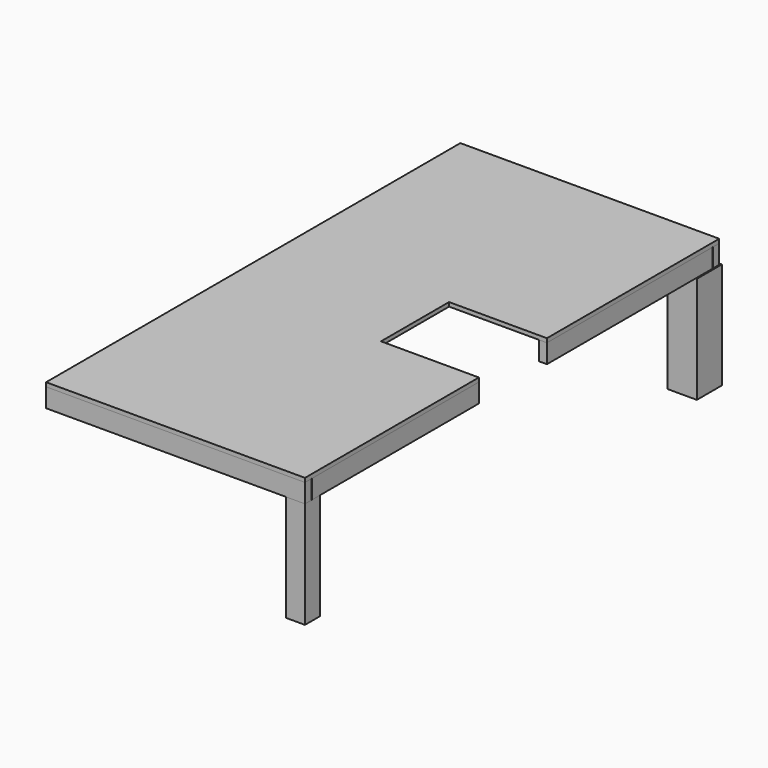
from build123d import *

# Parameters (mm, degrees)
F1_W      = 1219.2
F1_H      = 2438.4
F2_DEPTH  = 19.05
F3_W      = 1219.2
F3_H      = 38.1
F4_DEPTH  = 88.9
F5_W      = 38.1
F5_H      = 2357.12
F6_DEPTH  = 88.9
F7_W      = 460.8534946203
F7_H      = 400.5613774061
F8_DEPTH  = 107.951
F10_W     = 88.9
F10_H     = 88.9
F11_DEPTH = 501.65
F10_W_2   = 139.2837166786
F10_H_2   = 147.6407051086


with BuildPart() as f2:
    # F1 (on Top) → F2 (new body)
    with BuildSketch(Plane.XY):
        Rectangle(F1_W, F1_H)
    extrude(amount=F2_DEPTH)


with BuildPart() as f4:
    # F3 (on Top) → F4 (new body)
    with BuildSketch(Plane.XY):
        with Locations((0, 1200.15)):
            Rectangle(F3_W, F3_H)
    extrude(amount=-F4_DEPTH)


with BuildPart() as f4b:
    # F3 (on Top) → F4, piece 2 (new body)
    with BuildSketch(Plane.XY):
        with Locations((0, -1200.15)):
            Rectangle(F3_W, F3_H)
    extrude(amount=-F4_DEPTH)


with BuildPart() as f6:
    # F5 (on Top) → F6 (new body)
    with BuildSketch(Plane.XY):
        with Locations((-590.55, 0)):
            Rectangle(F5_W, F5_H)
    extrude(amount=-F6_DEPTH)


with BuildPart() as f6b:
    # F5 (on Top) → F6, piece 2 (new body)
    with BuildSketch(Plane.XY):
        with Locations((590.55, 0)):
            Rectangle(F5_W, F5_H)
    extrude(amount=-F6_DEPTH)


with BuildPart() as f8_tool:
    # F7 (on face) → F8 (new body, through all)
    with BuildSketch(Plane.XY.offset(19.05)):
        with Locations((379.1732526898, 4.6849474311)):
            Rectangle(F7_W, F7_H)
    extrude(amount=-F8_DEPTH)


with BuildPart() as f2_1:
    add(f2.part)

    # F8: cut by f8_tool
    add(f8_tool.part, mode=Mode.SUBTRACT)


with BuildPart() as f6b_1:
    add(f6b.part)

    # F8: cut by f8_tool
    add(f8_tool.part, mode=Mode.SUBTRACT)


with BuildPart() as f11:
    # F10 (on offset) → F11 (new body, through all)
    with BuildSketch(Plane.XY.offset(-590.55)):
        with Locations((565.15, -1174.75)):
            Rectangle(F10_W, F10_H)
    extrude(amount=F11_DEPTH)


with BuildPart() as f11b:
    # F10 (on offset) → F11, piece 2 (new body, through all)
    with BuildSketch(Plane.XY.offset(-590.55)):
        with Locations((545.7075536251, 1153.9824008942)):
            Rectangle(F10_W_2, F10_H_2)
    extrude(amount=F11_DEPTH)


solid = Compound([f4.part, f4b.part, f6.part, f2_1.part, f6b_1.part, f11.part, f11b.part])
